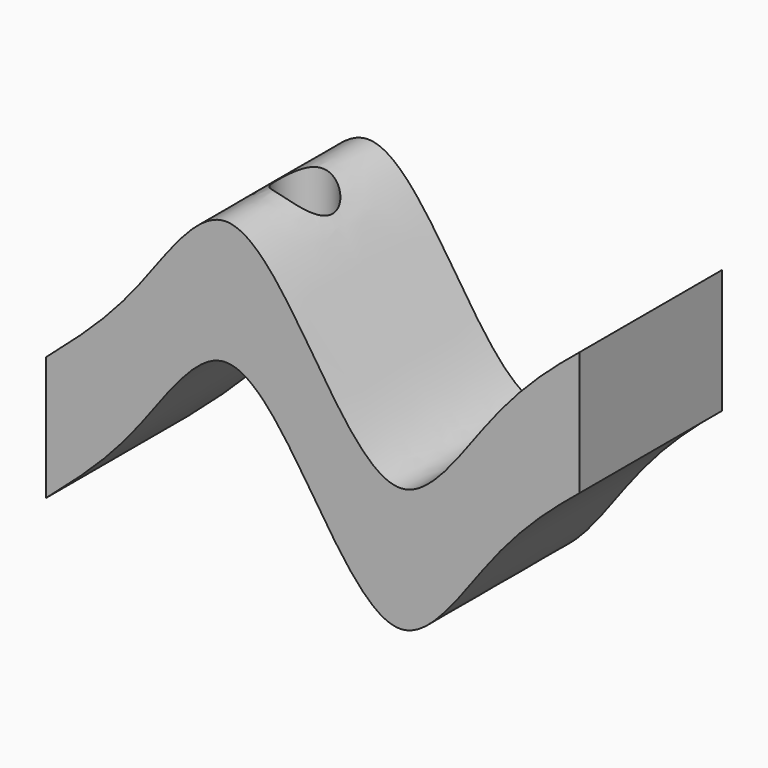
from build123d import *

# Parameters (mm, degrees)
F1_DEPTH = 25.4
F2_R     = 3.96875
F3_DEPTH = 25.908


with BuildPart() as f1:
    # F0 (on Front) → F1 (new body)
    with BuildSketch(Plane.XZ):
        with BuildLine():
            add(Edge.make_bspline(
                [(-38.1, -12.7), (-33.882107, -9.031354), (-25.392182, -1.693309), (-12.704204, 19.473612), (0.008999, -0.001138), (12.668207, -19.469058), (25.518173, 1.677371), (33.612126, 9.065506), (38.1, 12.7)],
                knots=[0, 0, 0, 0, 17.960512, 35.921024, 53.881537, 71.842049, 89.802561, 107.763073, 107.763073, 107.763073, 107.763073], degree=3))
            Line((-38.1, -12.7), (-38.1, -30.40595))
            add(Edge.make_bspline(
                [(-38.1, -30.40595), (-33.882107, -26.737304), (-25.392182, -19.399258), (-12.704204, 1.767662), (0.008999, -17.707088), (12.668207, -37.175008), (25.518173, -16.028579), (33.612126, -8.640444), (38.1, -5.00595)],
                knots=[0, 0, 0, 0, 17.960512, 35.921024, 53.881537, 71.842049, 89.802561, 107.763073, 107.763073, 107.763073, 107.763073], degree=3))
            Line((38.1, -5.00595), (38.1, 12.7))
        make_face()
    extrude(amount=F1_DEPTH)

    # F2 (on Top) → F3 (cut, symmetric)
    with BuildSketch(Plane.XY):
        with Locations((-11.43, -12.550292)):
            Circle(F2_R)
    extrude(amount=F3_DEPTH, both=True, mode=Mode.SUBTRACT)


solid = f1.part
